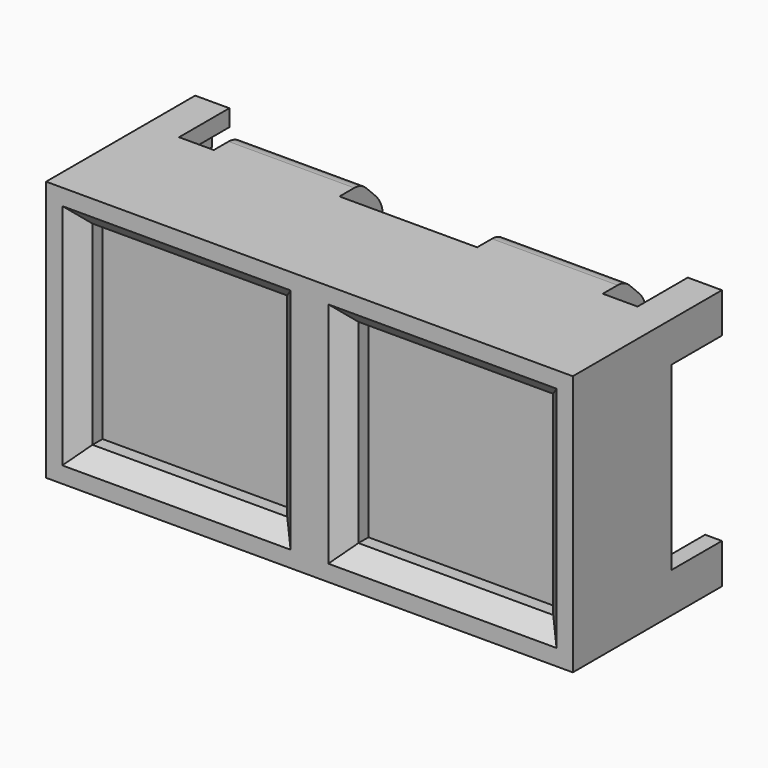
from build123d import *

# Parameters (mm, degrees)
SKETCH013_W     = 25.15
SKETCH013_H     = 12.45
PAD001_DEPTH    = 5.9
SKETCH018_W     = 9.3
SKETCH018_H     = 9.3
POCKET008_DEPTH = 1.4
CHAMFER_SIZE    = 0.8
PAD003_DEPTH    = 3
SKETCH007_W     = 6
SKETCH007_H     = 3
PAD004_DEPTH    = 2.6
SKETCH008_R     = 1.5
PAD005_DEPTH    = 2
FILLET004_R     = 0.5
CHAMFER003_SIZE = 1.3
FILLET003_R     = 1.5
FILLET002_R     = 1
SKETCH009_W     = 6
SKETCH009_H     = 1.6
POCKET006_DEPTH = 1.8
SKETCH010_W     = 6
SKETCH010_H     = 1.6
POCKET007_DEPTH = 1.8
SKETCH014_W     = 1.6
SKETCH014_H     = 6
POCKET005_DEPTH = 1.8


with BuildPart() as part:
    # Sketch013 → Pad001 (new body)
    with BuildSketch(Plane.XZ):
        Rectangle(SKETCH013_W, SKETCH013_H)
    extrude(amount=PAD001_DEPTH)

    # Sketch018 (on Face6 of Pad001) → Pocket008 (cut)
    with BuildSketch(Plane.XZ.offset(5.9)):
        with Locations((-6.35, 0)):
            Rectangle(SKETCH018_W, SKETCH018_H)
        with Locations((6.35, 0)):
            Rectangle(SKETCH018_W, SKETCH018_H)
    extrude(amount=-POCKET008_DEPTH, mode=Mode.SUBTRACT)

    # Chamfer
    chamfer_edges = [part.edges().sort_by_distance(p)[0] for p in [
        (-6.35, -5.9, 4.65),
        (-11, -5.9, 0),
        (-6.35, -5.9, -4.65),
        (-1.7, -5.9, 0),
        (1.7, -5.9, 0),
        (6.35, -5.9, 4.65),
        (11, -5.9, 0),
        (6.35, -5.9, -4.65),
    ]]
    chamfer(chamfer_edges, length=CHAMFER_SIZE)

    # Sketch015 (on Face18 of Chamfer) → Pad003 (join)
    with BuildSketch(Plane(origin=(0, 0, 0), x_dir=(1, 0, 0), z_dir=(0, 1, 0))):
        Polygon((12.575, -4.315), (12.575, -6.225), (10.945, -6.225), (10.945, -5.425), (11.775, -5.425), (11.775, -4.315), align=None)
        Polygon((-10.945, -6.225), (-12.575, -6.225), (-12.575, -4.315), (-11.775, -4.315), (-11.775, -5.425), (-10.945, -5.425), align=None)
        Polygon((12.575, 4.315), (12.575, 6.225), (10.945, 6.225), (10.945, 5.425), (11.775, 5.425), (11.775, 4.315), align=None)
        Polygon((-11.775, 4.315), (-11.775, 5.425), (-10.945, 5.425), (-10.945, 6.225), (-12.575, 6.225), (-12.575, 4.315), align=None)
    extrude(amount=PAD003_DEPTH)

    # Sketch007 (on Face19 of Pad003) → Pad004 (join)
    with BuildSketch(Plane(origin=(0, 0, 0), x_dir=(1, 0, 0), z_dir=(0, 1, 0))):
        with Locations((-6.2875, 4.725)):
            Rectangle(SKETCH007_W, SKETCH007_H)
        with Locations((6.2875, 4.725)):
            Rectangle(SKETCH007_W, SKETCH007_H)
        with Locations((-6.2875, -4.725)):
            Rectangle(SKETCH007_W, SKETCH007_H)
        with Locations((6.2875, -4.725)):
            Rectangle(SKETCH007_W, SKETCH007_H)
    extrude(amount=PAD004_DEPTH)

    # Sketch008 (on Face19 of Pad004) → Pad005 (join)
    with BuildSketch(Plane(origin=(0, 0, 0), x_dir=(1, 0, 0), z_dir=(0, 1, 0))):
        Circle(SKETCH008_R)
    extrude(amount=PAD005_DEPTH)

    # Fillet004
    fillet004_edges = [part.edges().sort_by_distance(p)[0] for p in [
        (-1.5, 2, 0),
    ]]
    fillet(fillet004_edges, radius=FILLET004_R)

    # Chamfer003
    chamfer003_edges = [part.edges().sort_by_distance(p)[0] for p in [
        (6.2875, 2.6, -6.225),
        (-6.2875, 2.6, -6.225),
        (6.2875, 2.6, 6.225),
        (-6.2875, 2.6, 6.225),
    ]]
    chamfer(chamfer003_edges, length=CHAMFER003_SIZE)

    # Fillet003
    fillet003_edges = [part.edges().sort_by_distance(p)[0] for p in [
        (-6.2875, 2.6, 4.925),
        (6.2875, 2.6, 4.925),
        (-6.2875, 2.6, -4.925),
        (6.2875, 2.6, -4.925),
    ]]
    fillet(fillet003_edges, radius=FILLET003_R)

    # Fillet002
    fillet002_edges = [part.edges().sort_by_distance(p)[0] for p in [
        (6.2875, 1.3, -6.225),
        (-6.2875, 1.3, -6.225),
        (6.2875, 1.3, 6.225),
        (-6.2875, 1.3, 6.225),
    ]]
    fillet(fillet002_edges, radius=FILLET002_R)

    # Sketch009 (on Face22 of Fillet002) → Pocket006 (cut)
    with BuildSketch(Plane(origin=(0, 0, 3.225), x_dir=(1, 0, 0), z_dir=(0, 0, -1))):
        with Locations((-6.2875, -0.8)):
            Rectangle(SKETCH009_W, SKETCH009_H)
    extrude(amount=-POCKET006_DEPTH, mode=Mode.SUBTRACT)

    # Sketch010 (on Face25 of Pocket006) → Pocket007 (cut)
    with BuildSketch(Plane(origin=(0, 0, 3.225), x_dir=(1, 0, 0), z_dir=(0, 0, -1))):
        with Locations((6.2875, -0.8)):
            Rectangle(SKETCH010_W, SKETCH010_H)
    extrude(amount=-POCKET007_DEPTH, mode=Mode.SUBTRACT)

    # Sketch014 (on DatumPlane) → Pocket005 (cut)
    with BuildSketch(Plane(origin=(0, 1.3, -3.225), x_dir=(0, 1, 0), z_dir=(0, 0, 1))):
        with Locations((-0.5, 6.2875)):
            Rectangle(SKETCH014_W, SKETCH014_H)
        with Locations((-0.5, -6.2875)):
            Rectangle(SKETCH014_W, SKETCH014_H)
    extrude(amount=-POCKET005_DEPTH, mode=Mode.SUBTRACT)


solid = part.part
